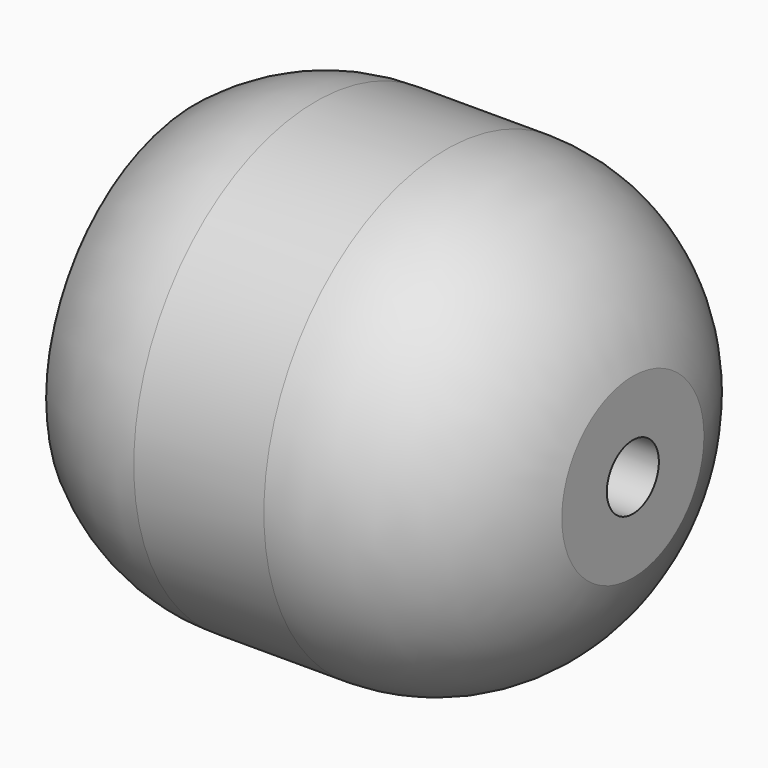
from build123d import *

# Parameters (mm, degrees)
F0_R           = 22.225
F1_DEPTH       = 50.8
F2_R           = 19.05
F3_R           = 15.875
F4_DEPTH       = 38.1
F5_R           = 1.27
F6_R           = 3.175
F7_DEPTH       = 50.801
F8_R           = 10.16
F9_W           = 6.6301524639
F9_H           = 19.9486073107
F10_DEPTH      = 22.2260001
F10_DEPTH_BACK = 25.4


with BuildPart() as f1:
    # F0 (on Right) → F1 (new body)
    with BuildSketch(Plane.YZ):
        Circle(F0_R)
    extrude(amount=F1_DEPTH)

    # F2
    f2_edges = [f1.edges().sort_by_distance(p)[0] for p in [
        (0, -22.225, 0),
        (50.8, -22.225, 0),
    ]]
    fillet(f2_edges, radius=F2_R)

    # F3 (on Right) → F4 (cut)
    with BuildSketch(Plane.YZ):
        Circle(F3_R)
    extrude(amount=F4_DEPTH, mode=Mode.SUBTRACT)

    # F5
    f5_edges = [f1.edges().sort_by_distance(p)[0] for p in [
        (4.850968, -15.875, 0),
    ]]
    fillet(f5_edges, radius=F5_R)

    # F6 (on Right) → F7 (cut, through all)
    with BuildSketch(Plane.YZ):
        Circle(F6_R)
    extrude(amount=F7_DEPTH, mode=Mode.SUBTRACT)

    # F8
    f8_edges = [f1.edges().sort_by_distance(p)[0] for p in [
        (38.1, -15.875, 0),
    ]]
    fillet(f8_edges, radius=F8_R)

    # F9 (on Front) → F10 (cut, two sides)
    with BuildSketch(Plane.XZ) as f10_sk:
        with Locations((53.3047877252, -1.149632968)):
            Rectangle(F9_W, F9_H)
    extrude(amount=-F10_DEPTH, mode=Mode.SUBTRACT)
    extrude(f10_sk.sketch, amount=F10_DEPTH_BACK, mode=Mode.SUBTRACT)


solid = f1.part
